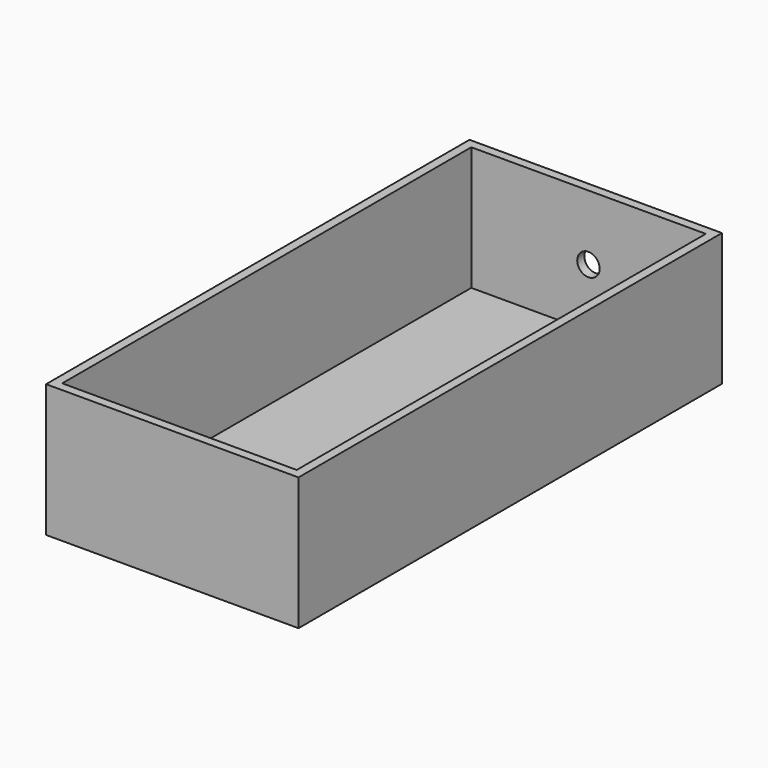
from build123d import *

# Parameters (mm, degrees)
F0_W     = 71.4756
F0_H     = 37.592
F1_DEPTH = 149.86
F2_T     = -2.54
F4_D     = 6.35
F4_DEPTH = 25.4
F4_TIP   = 1.9077324654


with BuildPart() as f1:
    # F0 (on Front) → F1 (new body)
    with BuildSketch(Plane.XZ):
        with Locations((-3.4269116563, 18.796)):
            Rectangle(F0_W, F0_H)
    extrude(amount=F1_DEPTH)

    # F2
    f2_openings = [f1.faces().sort_by_distance(p)[0] for p in [
        (-3.426912, -74.93, 37.592),
    ]]
    offset(amount=F2_T, openings=f2_openings)

    # F4
    with Locations(Plane(origin=(0, 0, 0), x_dir=(1, 0, 0), z_dir=(0, 1, 0))):
        with Locations((-3.4536644816, -19.1390831023)):
            Hole(F4_D / 2, depth=F4_DEPTH)
            with Locations((0, 0, -(F4_DEPTH + F4_TIP / 2))):  # 118° drill point
                Cone(0, F4_D / 2, F4_TIP, mode=Mode.SUBTRACT)


solid = f1.part
